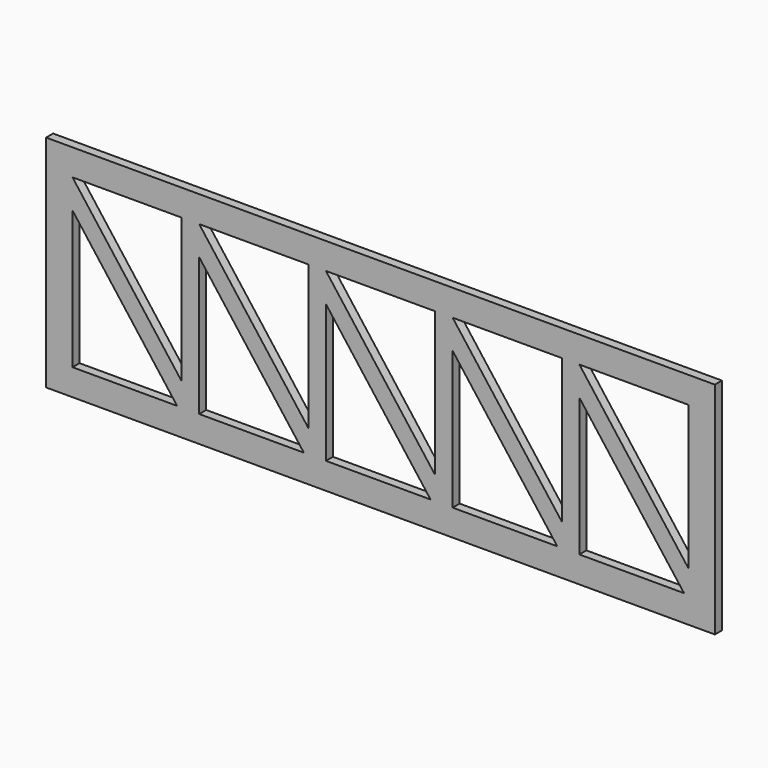
from build123d import *

# Parameters (mm, degrees)
F0_W     = 152
F0_H     = 50
F1_DEPTH = 2


with BuildPart() as f1:
    # F0 (on Front) → F1 (new body)
    with BuildSketch(Plane.XZ):
        with Locations((76, 25)):
            Rectangle(F0_W, F0_H)
        Polygon((29.780989, 6), (6, 6), (6, 37.377694), (6, 44), (30.8, 44), (34.8, 44), (59.6, 44), (63.6, 44), (88.4, 44), (92.4, 44), (117.2, 44), (121.2, 44), (146, 44), (150, 44), (150, 6), (144.980989, 6), (121.2, 6), (116.180989, 6), (92.4, 6), (87.380989, 6), (63.6, 6), (58.580989, 6), (34.8, 6), align=None, mode=Mode.SUBTRACT)
        Polygon((121.2, 37.377694), (144.980989, 6), (150, 6), (146, 11.277778), (121.2, 44), align=None)
        Polygon((117.2, 11.277778), (121.2, 6), (121.2, 37.377694), (121.2, 44), (117.2, 44), align=None)
        Polygon((92.4, 37.377694), (116.180989, 6), (121.2, 6), (117.2, 11.277778), (92.4, 44), align=None)
        Polygon((88.4, 11.277778), (92.4, 6), (92.4, 37.377694), (92.4, 44), (88.4, 44), align=None)
        Polygon((63.6, 37.377694), (87.380989, 6), (92.4, 6), (88.4, 11.277778), (63.6, 44), align=None)
        Polygon((59.6, 11.277778), (63.6, 6), (63.6, 37.377694), (63.6, 44), (59.6, 44), align=None)
        Polygon((34.8, 37.377694), (58.580989, 6), (63.6, 6), (59.6, 11.277778), (34.8, 44), align=None)
        Polygon((30.8, 11.277778), (34.8, 6), (34.8, 37.377694), (34.8, 44), (30.8, 44), align=None)
        Polygon((6, 37.377694), (29.780989, 6), (34.8, 6), (30.8, 11.277778), (6, 44), align=None)
        Polygon((146, 11.277778), (150, 6), (150, 44), (146, 44), align=None)
    extrude(amount=F1_DEPTH)


solid = f1.part
